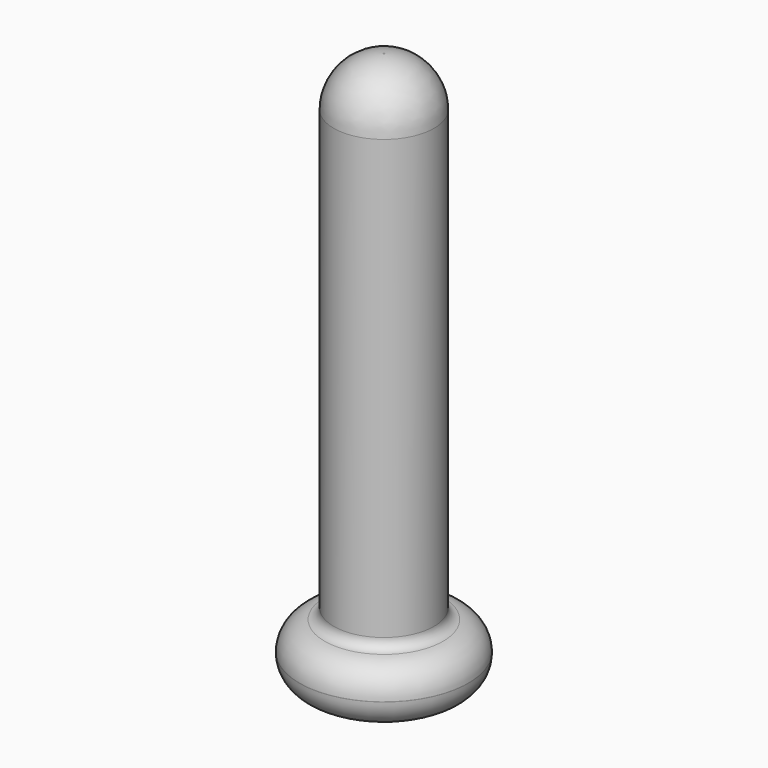
from build123d import *


with BuildPart() as f1:
    # F0 (on Front) → F1 (revolve)
    with BuildSketch(Plane.XZ):
        with BuildLine():
            Line((-6.858, 0), (0, 0))
            Line((0, 0), (0, 68.58))
            Line((0, 68.58), (-0.1016, 68.58))
            ThreePointArc((-0.1016, 68.58), (-4.412123, 66.794523), (-6.1976, 62.484))
            Line((-6.1976, 62.484), (-6.1976, 8.370646))
            ThreePointArc((-6.1976, 8.370646), (-6.514543, 7.531252), (-7.307179, 7.110819))
            ThreePointArc((-7.307179, 7.110819), (-9.526559, 5.933606), (-10.414, 3.583302))
            Line((-10.414, 3.583302), (-10.414, 3.556))
            ThreePointArc((-10.414, 3.556), (-9.372472, 1.041528), (-6.858, 0))
        make_face()
    revolve(axis=Axis((0, 0, 34.29), (0, 0, -1)))


solid = f1.part
